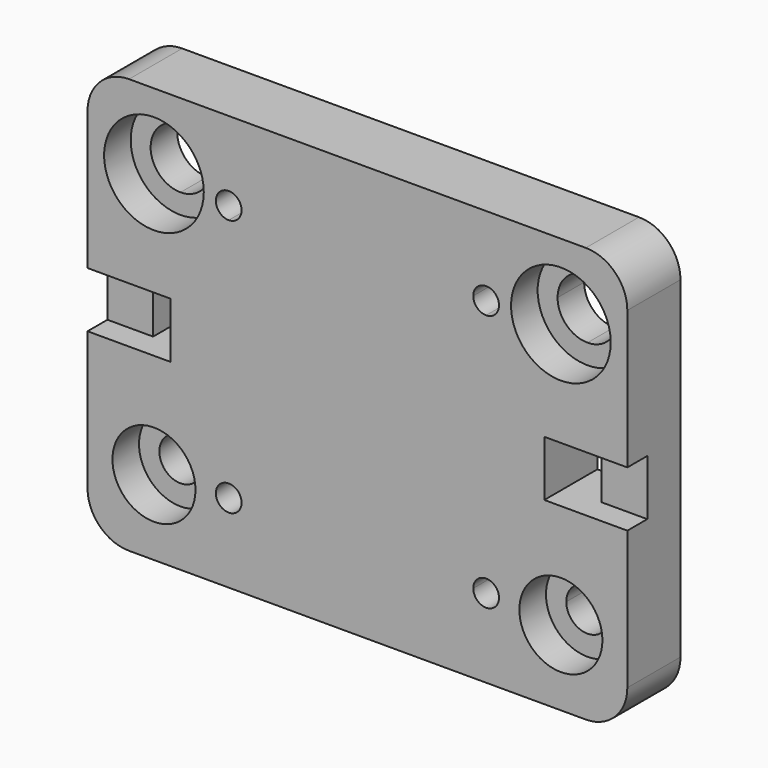
from build123d import *

# Parameters (mm, degrees)
F0_W     = 65
F0_H     = 50
F0_W_2   = 45
F0_H_2   = 6.7
F1_DEPTH = 8
F2_R     = 6
F2_R_2   = 3.6
F2_R_3   = 5
F2_R_4   = 2.55
F3_DEPTH = 4
F4_W     = 5.5
F4_H     = 6.7
F5_DEPTH = 3
F6_R     = 5
F8_DEPTH = 25


with BuildPart() as f1:
    # F0 (on Front) → F1 (new body)
    with BuildSketch(Plane.XZ):
        Rectangle(F0_W, F0_H)
        with BuildLine():
            ThreePointArc((-24.5, 12.35), (-27.0455844123, 18.4955844123), (-20.9, 15.95))
            Line((-20.9, 15.95), (20.9, 15.95))
            ThreePointArc((20.9, 15.95), (24.5, 19.55), (28.1, 15.95))
            ThreePointArc((28.1, 15.95), (27.0455844123, 13.4044155877), (24.5, 12.35))
            Line((24.5, 12.35), (24.5, 3.35))
            Line((24.5, 3.35), (27, 3.35))
            Line((27, 3.35), (27, -3.35))
            Line((27, -3.35), (24.5, -3.35))
            Line((24.5, -3.35), (24.5, -13.4))
            ThreePointArc((24.5, -13.4), (26.303122292, -14.146877708), (27.05, -15.95))
            ThreePointArc((27.05, -15.95), (24.5, -18.5), (21.95, -15.95))
            Line((21.95, -15.95), (-21.95, -15.95))
            ThreePointArc((-21.95, -15.95), (-26.303122292, -17.753122292), (-24.5, -13.4))
            Line((-24.5, -13.4), (-24.5, -3.35))
            Line((-24.5, -3.35), (-27, -3.35))
            Line((-27, -3.35), (-27, 3.35))
            Line((-27, 3.35), (-24.5, 3.35))
            Line((-24.5, 3.35), (-24.5, 12.35))
        make_face(mode=Mode.SUBTRACT)
        with BuildLine():
            Line((20.9, 15.95), (-20.9, 15.95))
            ThreePointArc((-20.9, 15.95), (-21.9544155877, 13.4044155877), (-24.5, 12.35))
            Line((-24.5, 12.35), (-24.5, 3.35))
            Line((-24.5, 3.35), (-22.5, 3.35))
            Line((-22.5, 3.35), (22.5, 3.35))
            Line((22.5, 3.35), (24.5, 3.35))
            Line((24.5, 3.35), (24.5, 12.35))
            ThreePointArc((24.5, 12.35), (21.9544155877, 13.4044155877), (20.9, 15.95))
        make_face()
        with BuildLine():
            Line((-22.5, -3.35), (-24.5, -3.35))
            Line((-24.5, -3.35), (-24.5, -13.4))
            ThreePointArc((-24.5, -13.4), (-22.696877708, -14.146877708), (-21.95, -15.95))
            Line((-21.95, -15.95), (21.95, -15.95))
            ThreePointArc((21.95, -15.95), (22.696877708, -14.146877708), (24.5, -13.4))
            Line((24.5, -13.4), (24.5, -3.35))
            Line((24.5, -3.35), (22.5, -3.35))
            Line((22.5, -3.35), (-22.5, -3.35))
        make_face()
        Rectangle(F0_W_2, F0_H_2)
        Rectangle(F0_W_2, F0_H_2)
    extrude(amount=F1_DEPTH)

    # F2 (on face) → F3 (cut)
    with BuildSketch(Plane.XZ.offset(8)):
        with Locations((24.5, 15.95)):
            Circle(F2_R)
        with Locations((24.5, 15.95)):
            Circle(F2_R_2, mode=Mode.SUBTRACT)
        with Locations((-24.5, 15.95)):
            Circle(F2_R)
        with Locations((-24.5, 15.95)):
            Circle(F2_R_2, mode=Mode.SUBTRACT)
        with Locations((-24.5, -15.95)):
            Circle(F2_R_3)
        with Locations((-24.5, -15.95)):
            Circle(F2_R_4, mode=Mode.SUBTRACT)
        with Locations((24.5, -15.95)):
            Circle(F2_R_3)
        with Locations((24.5, -15.95)):
            Circle(F2_R_4, mode=Mode.SUBTRACT)
    extrude(amount=-F3_DEPTH, mode=Mode.SUBTRACT)

    # F4 (on face) → F5 (cut)
    with BuildSketch(Plane.XZ.offset(8)):
        with Locations((29.75, 0)):
            Rectangle(F4_W, F4_H)
        with Locations((-29.75, 0)):
            Rectangle(F4_W, F4_H)
    extrude(amount=-F5_DEPTH, mode=Mode.SUBTRACT)

    # F6
    f6_edges = [f1.edges().sort_by_distance(p)[0] for p in [
        (-32.5, -4, 25),
        (32.5, -4, 25),
        (32.5, -4, -25),
        (-32.5, -4, -25),
    ]]
    fillet(f6_edges, radius=F6_R)

    # F7 (on face) → F8 (cut)
    with BuildSketch(Plane.XZ.offset(8)):
        with BuildLine():
            Line((-15.5, 13.95), (-15.5, 15.5))
            Line((-15.5, 15.5), (-13.95, 15.5))
            ThreePointArc((-13.95, 15.5), (-16.5960155108, 16.5960155108), (-15.5, 13.95))
        make_face()
        with BuildLine():
            Line((-13.95, 15.5), (-15.5, 15.5))
            Line((-15.5, 15.5), (-15.5, 13.95))
            ThreePointArc((-15.5, 13.95), (-14.4039844892, 14.4039844892), (-13.95, 15.5))
        make_face()
        with BuildLine():
            ThreePointArc((-13.95, -15.5), (-14.4039844892, -14.4039844892), (-15.5, -13.95))
            Line((-15.5, -13.95), (-15.5, -15.5))
            Line((-15.5, -15.5), (-13.95, -15.5))
        make_face()
        with BuildLine():
            Line((-15.5, -15.5), (-15.5, -13.95))
            ThreePointArc((-15.5, -13.95), (-16.5960155108, -16.5960155108), (-13.95, -15.5))
            Line((-13.95, -15.5), (-15.5, -15.5))
        make_face()
        with BuildLine():
            Line((15.5, -15.5), (15.5, -13.95))
            ThreePointArc((15.5, -13.95), (14.4039844892, -14.4039844892), (13.95, -15.5))
            Line((13.95, -15.5), (15.5, -15.5))
        make_face()
        with BuildLine():
            ThreePointArc((17.05, -15.5), (16.5960155108, -14.4039844892), (15.5, -13.95))
            Line((15.5, -13.95), (15.5, -15.5))
            Line((15.5, -15.5), (13.95, -15.5))
            ThreePointArc((13.95, -15.5), (15.5, -17.05), (17.05, -15.5))
        make_face()
        with BuildLine():
            Line((15.5, 15.5), (13.95, 15.5))
            ThreePointArc((13.95, 15.5), (14.4039844892, 14.4039844892), (15.5, 13.95))
            Line((15.5, 13.95), (15.5, 15.5))
        make_face()
        with BuildLine():
            ThreePointArc((17.05, 15.5), (15.5, 17.05), (13.95, 15.5))
            Line((13.95, 15.5), (15.5, 15.5))
            Line((15.5, 15.5), (15.5, 13.95))
            ThreePointArc((15.5, 13.95), (16.5960155108, 14.4039844892), (17.05, 15.5))
        make_face()
    extrude(amount=-F8_DEPTH, mode=Mode.SUBTRACT)


solid = f1.part
